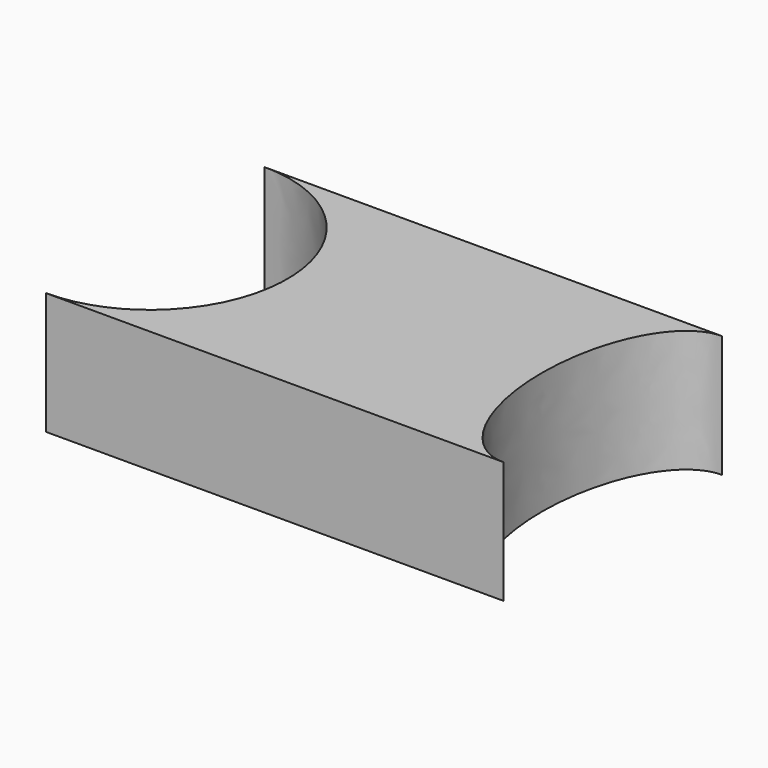
from build123d import *

# Parameters (mm, degrees)
F1_DEPTH = 25.4


with BuildPart() as f1:
    # F0 (on Top) → F1 (new body)
    with BuildSketch(Plane.XY):
        with BuildLine():
            Line((47.563549, 28.390644), (-47.563549, 28.390644))
            add(Edge.make_bspline(
                [(-47.563549, -28.390644), (-20.092361, -28.390644), (-20.092361, 0), (-20.092361, 28.390644), (-47.563549, 28.390644)],
                knots=[3.141593, 3.141593, 3.141593, 4.712389, 4.712389, 6.283185, 6.283185, 6.283185], degree=2, weights=[1, 0.707107, 1, 0.707107, 1]))
            Line((-47.563549, -28.390644), (47.563549, -28.390644))
            add(Edge.make_bspline(
                [(47.563549, 28.390644), (32.813914, 28.390644), (32.813914, 0), (32.813914, -28.390644), (47.563549, -28.390644)],
                knots=[0, 0, 0, 1.570796, 1.570796, 3.141593, 3.141593, 3.141593], degree=2, weights=[1, 0.707107, 1, 0.707107, 1]))
        make_face()
    extrude(amount=F1_DEPTH)


solid = f1.part
